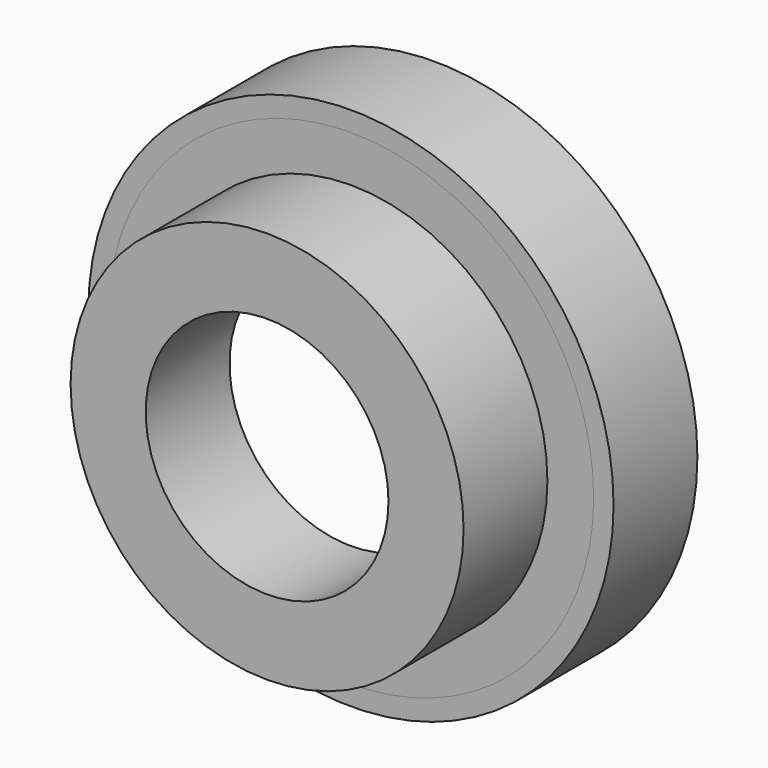
from build123d import *

# Parameters (mm, degrees)
F0_R     = 22.5
F0_R_2   = 13.9
F1_DEPTH = 12
F2_R     = 30.075
F2_R_2   = 26.91
F3_DEPTH = 12
F4_R     = 27.798297
F4_R_2   = 20.30632
F5_DEPTH = 1.1


with BuildPart() as f1:
    # F0 (on Front) → F1 (new body)
    with BuildSketch(Plane.XZ):
        Circle(F0_R)
        Circle(F0_R_2, mode=Mode.SUBTRACT)
    extrude(amount=F1_DEPTH)


with BuildPart() as f3:
    # F2 (on Front) → F3 (new body)
    with BuildSketch(Plane.XZ):
        Circle(F2_R)
        Circle(F2_R_2, mode=Mode.SUBTRACT)
    extrude(amount=-F3_DEPTH)


with BuildPart() as f5:
    # F4 (on Front) → F5 (new body)
    with BuildSketch(Plane.XZ):
        Circle(F4_R)
        Circle(F4_R_2, mode=Mode.SUBTRACT)
    extrude(amount=-F5_DEPTH)


solid = Compound([f1.part, f3.part, f5.part])
